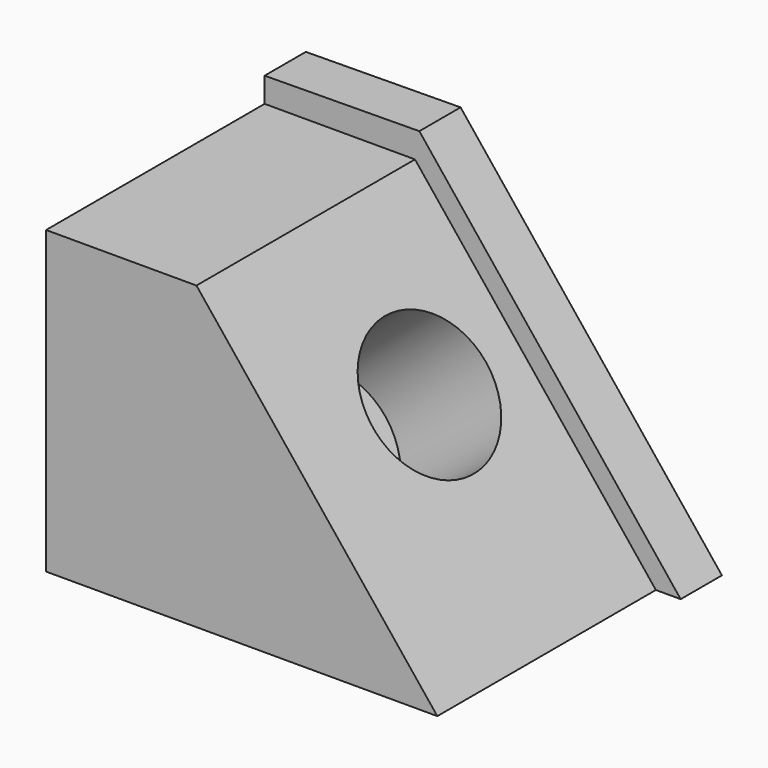
from build123d import *

# Parameters (mm, degrees)
F1_DEPTH = 32.004
F2_DEPTH = 32.004
F4_DEPTH = 53.848
F5_R     = 13.9464432641
F6_DEPTH = 25.4


with BuildPart() as f1:
    # F0 (on Front) → F1 (new body)
    with BuildSketch(Plane.XZ):
        Polygon((-13.9585789293, 34.9684022367), (-44.4659888744, 34.6805937588), (-44.4659888744, -29.5000895858), (37.5586524606, -29.5000895858), align=None)
    extrude(amount=F1_DEPTH)

    # F2 (add): a face of the model
    f2_faces = [f1.faces().sort_by_distance(p)[0] for p in [
        (-14.3434422771, 0, -2.2296991065),
    ]]
    extrude(f2_faces, amount=F2_DEPTH)

    # F3 (on face) → F4 (cut)
    with BuildSketch(Plane.XZ.offset(32.004)):
        Polygon((-44.4659888744, 34.6805937588), (-44.4659888744, 29.7878943384), (-14.8219969124, 29.7878943384), (32.6659567654, -29.5000895858), (37.5586524606, -29.5000895858), (-13.9585789293, 34.9684022367), align=None)
    extrude(amount=-F4_DEPTH, mode=Mode.SUBTRACT)

    # F5 (on face) → F6 (cut)
    with BuildSketch(Plane(origin=(5.5052949063, 0, 4.409581372), x_dir=(0, 1, 0), z_dir=(0.7804989961, 0, 0.6251570339))):
        Circle(F5_R)
    extrude(amount=-F6_DEPTH, mode=Mode.SUBTRACT)


solid = f1.part
